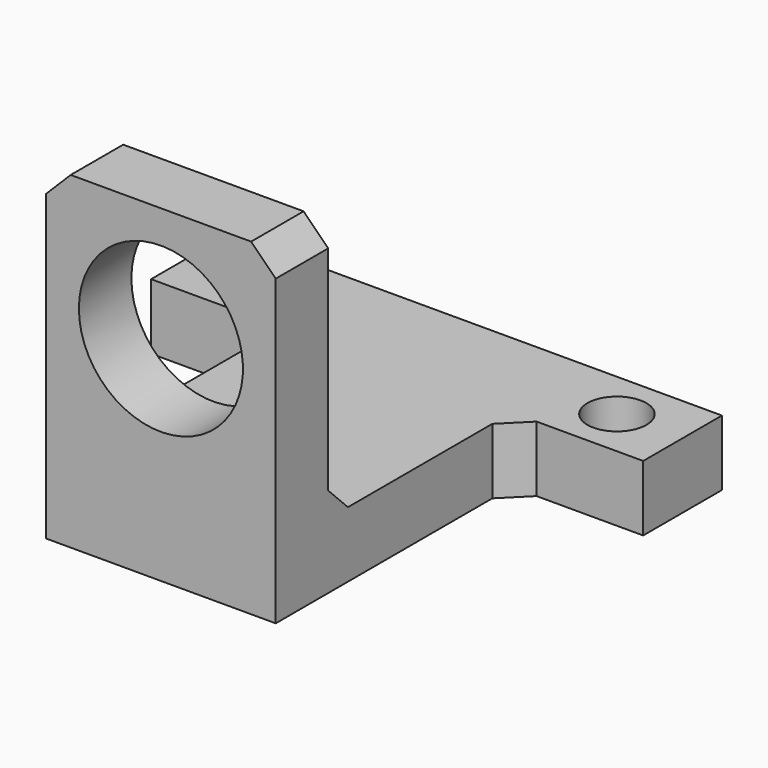
from build123d import *

# Parameters (mm, degrees)
F0_R     = 1.8
F0_W     = 14
F0_H     = 14
F1_DEPTH = 4
F0_H_2   = 4
F2_DEPTH = 20
F3_R     = 5
F4_DEPTH = 4
F5_SIZE  = 1.5


with BuildPart() as f1:
    # F0 (on Top) → F1 (new body)
    with BuildSketch(Plane.XY):
        Polygon((0, 6), (-30, 6), (-30, 0), (-22, 0), (-8, 0), (0, 0), align=None)
        with Locations((-26, 3)):
            Circle(F0_R, mode=Mode.SUBTRACT)
        with Locations((-4, 3)):
            Circle(F0_R, mode=Mode.SUBTRACT)
        with Locations((-15, -7)):
            Rectangle(F0_W, F0_H)
    extrude(amount=F1_DEPTH)

    # F0 (on Top) → F2 (join)
    with BuildSketch(Plane.XY):
        with Locations((-15, -16)):
            Rectangle(F0_W, F0_H_2)
    extrude(amount=F2_DEPTH)

    # F3 (on face) → F4 (cut, through all)
    with BuildSketch(Plane(origin=(0, -14, 0), x_dir=(-1, 0, 0), z_dir=(0, 1, 0))):
        with Locations((15, 13)):
            Circle(F3_R)
    extrude(amount=-F4_DEPTH, mode=Mode.SUBTRACT)

    # F5
    f5_edges = [f1.edges().sort_by_distance(p)[0] for p in [
        (-15, -14, 4),
        (-22, -16, 20),
        (-8, -16, 20),
        (-22, 0, 2),
        (-8, 0, 2),
    ]]
    chamfer(f5_edges, length=F5_SIZE)


solid = f1.part
